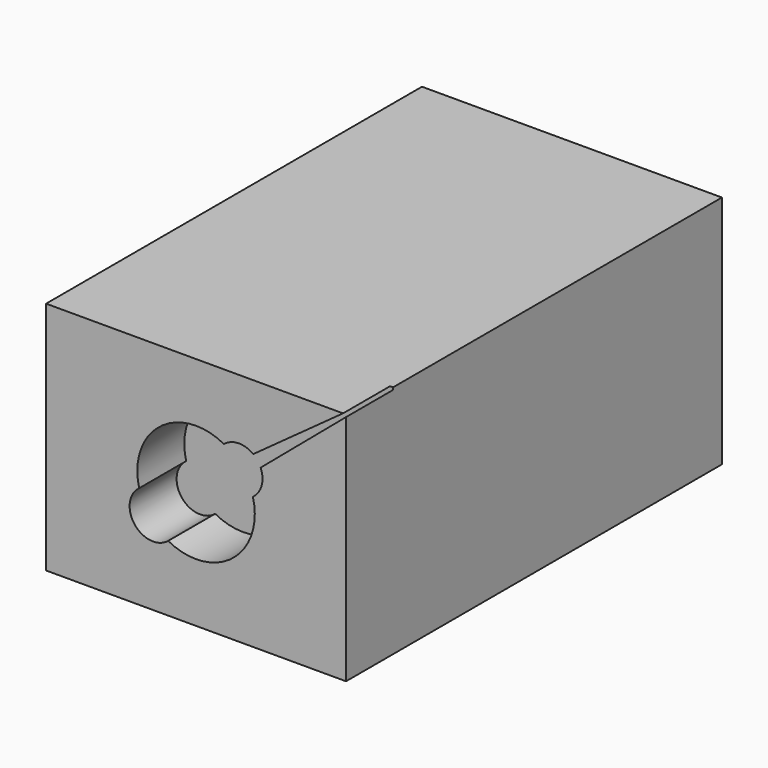
from build123d import *

# Parameters (mm, degrees)
F0_W     = 25.536726
F0_H     = 20
F1_DEPTH = 20
F3_DEPTH = 5


with BuildPart() as f1:
    # F0 (on Front) → F1 (new body, symmetric)
    with BuildSketch(Plane.XZ):
        Rectangle(F0_W, F0_H)
    extrude(amount=F1_DEPTH, both=True)

    # F2 (on face) → F3 (cut)
    with BuildSketch(Plane.XZ.offset(20)):
        with BuildLine():
            ThreePointArc((4.863993, 4.458256), (3.609529, 4.863258), (2.375522, 4.399647))
            ThreePointArc((2.375522, 4.399647), (-3.082954, 3.936419), (-4.840709, -1.252014))
            ThreePointArc((-4.840709, -1.252014), (-5.231428, -4.09718), (-2.375531, -4.399642))
            ThreePointArc((-2.375531, -4.399642), (3.082946, -3.936425), (4.840711, 1.252004))
            ThreePointArc((4.840711, 1.252004), (5.585837, 2.336443), (5.495987, 3.649131))
            Line((5.495987, 3.649131), (14.416598, 11.198342))
            Line((14.416598, 11.198342), (14.321596, 11.310602))
            Line((14.321596, 11.310602), (4.863993, 4.458256))
        make_face()
    extrude(amount=-F3_DEPTH, mode=Mode.SUBTRACT)


solid = f1.part
